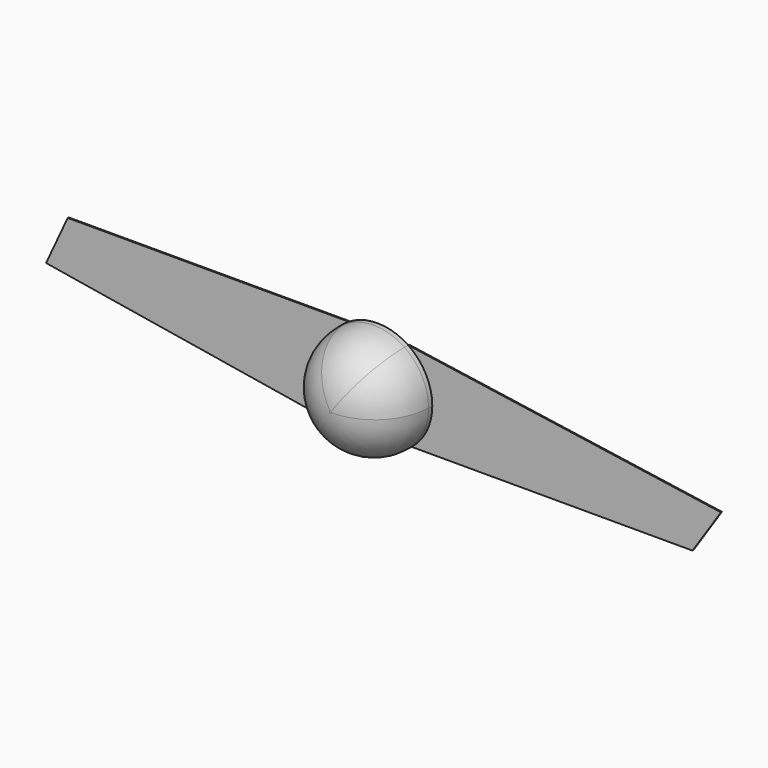
from build123d import *

# Parameters (mm, degrees)
F1_DEPTH = 12.7
F2_R     = 11.684
F3_DEPTH = 0.254


with BuildPart() as f1:
    # F0 (on Front) → F1 (new body)
    with BuildSketch(Plane.XZ):
        with BuildLine():
            ThreePointArc((7.411435592, -9.3183132406), (10.7238805165, -5.1728837076), (11.9063150968, 0))
            ThreePointArc((11.9063150968, 0), (10.5172491983, 5.581022172), (6.6741659001, 9.8598097711))
            ThreePointArc((6.6741659001, 9.8598097711), (0.2606131679, 11.9034625198), (-6.2362380975, 10.1424688107))
            ThreePointArc((-6.2362380975, 10.1424688107), (-11.8532061428, -1.1233179959), (-4.2199433469, -11.1333919958))
            ThreePointArc((-4.2199433469, -11.1333919958), (1.8357650747, -11.7639409117), (7.411435592, -9.3183132406))
        make_face()
    extrude(amount=F1_DEPTH)

    # F2
    f2_edges = [f1.edges().sort_by_distance(p)[0] for p in [
        (4.219943, -12.7, 11.133392),
    ]]
    fillet(f2_edges, radius=F2_R)


with BuildPart() as f3:
    # F0 (on Front) → F3 (new body)
    with BuildSketch(Plane.XZ):
        with BuildLine():
            ThreePointArc((-4.2199433469, -11.1333919958), (-11.8532061428, -1.1233179959), (-6.2362380975, 10.1424688107))
            Line((-6.2362380975, 10.1424688107), (-67.1962380975, 10.1424688107))
            Line((-67.1962380975, 10.1424688107), (-71.8902025652, 0))
            Line((-71.8902025652, 0), (-4.2199433469, -11.1333919958))
        make_face()
    extrude(amount=-F3_DEPTH)


with BuildPart() as f3b:
    # F0 (on Front) → F3, piece 2 (new body)
    with BuildSketch(Plane.XZ):
        with BuildLine():
            ThreePointArc((6.6741659001, 9.8598097711), (10.5172491983, 5.581022172), (11.9063150968, 0))
            ThreePointArc((11.9063150968, 0), (10.7238805165, -5.1728837076), (7.411435592, -9.3183132406))
            Line((7.411435592, -9.3183132406), (68.371435592, -9.3183132406))
            Line((68.371435592, -9.3183132406), (74.5416879654, 0))
            Line((74.5416879654, 0), (6.6741659001, 9.8598097711))
        make_face()
    extrude(amount=-F3_DEPTH)


solid = Compound([f1.part, f3.part, f3b.part])
